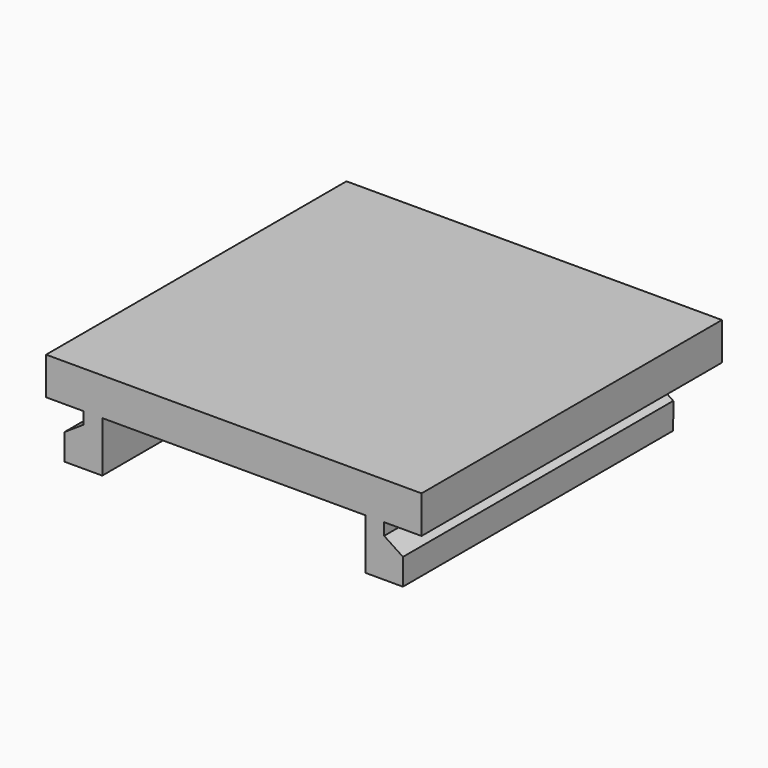
from build123d import *

# Parameters (mm, degrees)
F0_W     = 25.4
F0_H     = 25.4
F1_DEPTH = 2.54
F3_DEPTH = 12.7
F4_W     = 2.5409442976
F4_H     = 3.556
F5_DEPTH = 12.7


with BuildPart() as f1:
    # F0 (on Top) → F1 (new body)
    with BuildSketch(Plane.XY):
        Rectangle(F0_W, F0_H)
    extrude(amount=-F1_DEPTH)

    # F2 (on Front) → F3 (join, symmetric)
    with BuildSketch(Plane.XZ):
        Polygon((-8.8995148484, -2.54), (-10.1695148484, -2.54), (-10.1695148484, -3.3528), (-11.441459584, -4.1922835255), (-11.4395145246, -5.9702824616), (-8.8995148484, -5.969), align=None)
        Polygon((11.441459584, -4.1922835255), (10.1695148484, -3.3528), (10.1695148484, -2.54), (8.8995148484, -2.54), (8.8995148484, -5.969), (11.4395145246, -5.9702824616), align=None)
    extrude(amount=F3_DEPTH, both=True)

    # F4 (on Right) → F5 (cut, symmetric)
    with BuildSketch(Plane.YZ):
        with Locations((11.4295278512, -4.318)):
            Rectangle(F4_W, F4_H)
    extrude(amount=F5_DEPTH, both=True, mode=Mode.SUBTRACT)


solid = f1.part
